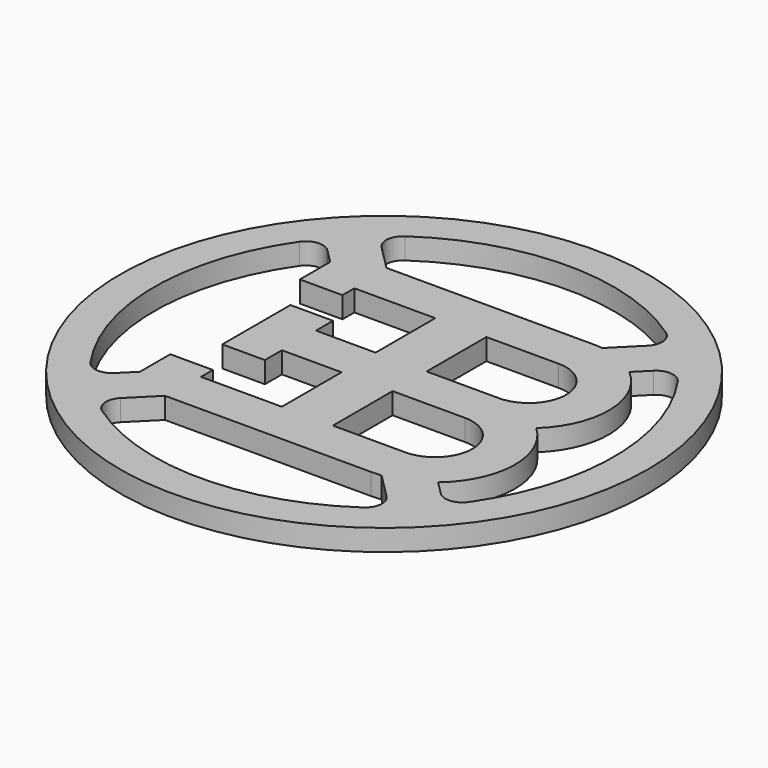
from build123d import *

# Parameters (mm, degrees)
F0_W     = 4
F0_H     = 2.5
F3_DEPTH = 2.5
F5_DEPTH = 2.5
F7_DEPTH = 2.5
F8_R     = 2
F9_R     = 2
F10_R    = 2
F11_R    = 2


with BuildPart() as f1:
    # F0 (on Front) → F1 (revolve)
    with BuildSketch(Plane.XZ):
        with Locations((29, 1.25)):
            Rectangle(F0_W, F0_H)
    revolve(axis=Axis((0, 0, 8.2326699048), (0, 0, 1)))



with BuildPart() as f3:
    # F2 (on Top) → F3 (new body, through all)
    with BuildSketch(Plane.XY):
        with BuildLine():
            Line((11.5, 16.2634559673), (-16.2634559673, 16.2634559673))
            Line((-16.2634559673, 16.2634559673), (-16.2634559673, 11.2634559673))
            Line((-16.2634559673, 11.2634559673), (-3, 11.2634559673))
            Line((-3, 11.2634559673), (-3, 2.5))
            Line((-3, 2.5), (-10, 2.5))
            Line((-10, 2.5), (-10, 5))
            Line((-10, 5), (-15, 5))
            Line((-15, 5), (-15, -5))
            Line((-15, -5), (-10, -5))
            Line((-10, -5), (-10, -2.5))
            Line((-10, -2.5), (-3, -2.5))
            Line((-3, -2.5), (-3, -11.2634559673))
            Line((-3, -11.2634559673), (-16.2634559673, -11.2634559673))
            Line((-16.2634559673, -11.2634559673), (-16.2634559673, -16.2634559673))
            Line((-16.2634559673, -16.2634559673), (11.5, -16.2634559673))
            ThreePointArc((11.5, -16.2634559673), (20.2343952269, -10.3062221039), (17.8764127782, 0))
            ThreePointArc((17.8764127782, 0), (20.2343952269, 10.3062221039), (11.5, 16.2634559673))
        make_face()
        with BuildLine():
            ThreePointArc((11.5, -2.5), (15.8817279836, -6.8817279836), (11.5, -11.2634559673))
            Line((11.5, -11.2634559673), (3, -11.2634559673))
            Line((3, -11.2634559673), (3, -2.5))
            Line((3, -2.5), (11.5, -2.5))
        make_face(mode=Mode.SUBTRACT)
        with BuildLine():
            Line((11.5, 2.5), (3, 2.5))
            Line((3, 2.5), (3, 11.2634559673))
            Line((3, 11.2634559673), (11.5, 11.2634559673))
            ThreePointArc((11.5, 11.2634559673), (15.8817279836, 6.8817279836), (11.5, 2.5))
        make_face(mode=Mode.SUBTRACT)
    extrude(amount=F3_DEPTH)

    # F4 (on face) → F5 (join, through all)
    with BuildSketch(Plane.XY.offset(2.5)):
        Polygon((-17.5, 9.5115462318), (-12.5, 9.5115462318), (-12.5, 11.2634559673), (-16.2634559673, 11.2634559673), (-16.2634559673, 16.2634559673), (-17.5, 16.2634559673), align=None)
        Polygon((-16.2634559673, -11.2634559673), (-12.5, -11.2634559673), (-12.5, -9.5115462318), (-17.5, -9.5115462318), (-17.5, -16.2634559673), (-16.2634559673, -16.2634559673), align=None)
    extrude(amount=-F5_DEPTH)


with BuildPart() as f1_1:
    add(f1.part)

    add(f3.part)  # F7 merges F3
    # F6 (on face) → F7 (join, through all)
    with BuildSketch(Plane.XY.offset(2.5)):
        with BuildLine():
            Line((-12.2809633628, 15.8164972687), (-17.2420989066, 20.7776328126))
            ThreePointArc((-17.2420989066, 20.7776328126), (-19.091883092, 19.091883092), (-20.7776328126, 17.2420989066))
            Line((-20.7776328126, 17.2420989066), (-15.8164972687, 12.2809633628))
            Line((-15.8164972687, 12.2809633628), (-12.2809633628, 15.8164972687))
        make_face()
        with BuildLine():
            ThreePointArc((20.7776328126, 17.2420989066), (19.091883092, 19.091883092), (17.2420989066, 20.7776328126))
            Line((17.2420989066, 20.7776328126), (11.4683862851, 15.0039201911))
            Line((11.4683862851, 15.0039201911), (15.0039201911, 11.4683862851))
            Line((15.0039201911, 11.4683862851), (20.7776328126, 17.2420989066))
        make_face()
        with BuildLine():
            ThreePointArc((17.2420989066, -20.7776328126), (19.091883092, -19.091883092), (20.7776328126, -17.2420989066))
            Line((20.7776328126, -17.2420989066), (15.277879572, -11.742345666))
            Line((15.277879572, -11.742345666), (11.742345666, -15.277879572))
            Line((11.742345666, -15.277879572), (17.2420989066, -20.7776328126))
        make_face()
        with BuildLine():
            Line((-15.6028734736, -12.0673543775), (-20.7776260963, -17.2421070001))
            ThreePointArc((-20.7776260963, -17.2421070001), (-19.091883092, -19.091883092), (-17.2421070001, -20.7776260963))
            Line((-17.2421070001, -20.7776260963), (-12.057121052, -15.5926401481))
            Line((-12.057121052, -15.5926401481), (-15.6028734736, -12.0673543775))
        make_face()
    extrude(amount=-F7_DEPTH)

    # F8
    f8_edges = [f1_1.edges().sort_by_distance(p)[0] for p in [
        (-17.242099, 20.777633, 1.25),
        (17.242099, 20.777633, 1.25),
    ]]
    fillet(f8_edges, radius=F8_R)

    # F9
    f9_edges = [f1_1.edges().sort_by_distance(p)[0] for p in [
        (-20.777633, 17.242099, 1.25),
        (-20.777626, -17.242107, 1.25),
    ]]
    fillet(f9_edges, radius=F9_R)

    # F10
    f10_edges = [f1_1.edges().sort_by_distance(p)[0] for p in [
        (-17.242107, -20.777626, 1.25),
        (17.242099, -20.777633, 1.25),
    ]]
    fillet(f10_edges, radius=F10_R)

    # F11
    f11_edges = [f1_1.edges().sort_by_distance(p)[0] for p in [
        (20.777633, 17.242099, 1.25),
        (20.777633, -17.242099, 1.25),
    ]]
    fillet(f11_edges, radius=F11_R)


solid = f1_1.part
